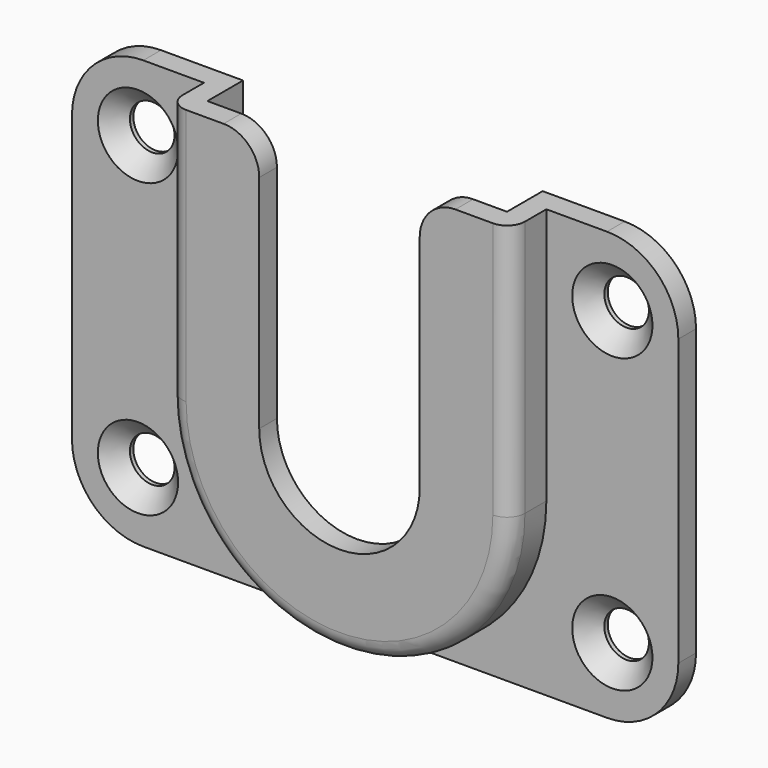
from build123d import *

# Parameters (mm, degrees)
F0_R     = 1.5875
F1_DEPTH = 1.5748
F3_DEPTH = 3.175
F5_DEPTH = 3.175
F7_DEPTH = 4.7508
F9_DEPTH = 4.7508
F10_R    = 1.27
F11_SIZE = 1.27


with BuildPart() as f1:
    # F0 (on Front) → F1 (new body)
    with BuildSketch(Plane.XZ):
        with BuildLine():
            ThreePointArc((21.59, 10.16), (20.1021024484, 13.7521024484), (16.51, 15.24))
            Line((16.51, 15.24), (-16.51, 15.24))
            ThreePointArc((-16.51, 15.24), (-20.1021024484, 13.7521024484), (-21.59, 10.16))
            Line((-21.59, 10.16), (-21.59, -10.16))
            ThreePointArc((-21.59, -10.16), (-20.1021024484, -13.7521024484), (-16.51, -15.24))
            Line((-16.51, -15.24), (16.51, -15.24))
            ThreePointArc((16.51, -15.24), (20.1021024484, -13.7521024484), (21.59, -10.16))
            Line((21.59, -10.16), (21.59, 10.16))
        make_face()
        with Locations((-16.891, -10.414)):
            Circle(F0_R, mode=Mode.SUBTRACT)
        with Locations((16.891, -10.414)):
            Circle(F0_R, mode=Mode.SUBTRACT)
        with Locations((-16.891, 10.414)):
            Circle(F0_R, mode=Mode.SUBTRACT)
        with Locations((16.891, 10.414)):
            Circle(F0_R, mode=Mode.SUBTRACT)
    extrude(amount=F1_DEPTH)

    # F2 (on face) → F3 (join)
    with BuildSketch(Plane.XZ.offset(1.5748)):
        with BuildLine():
            ThreePointArc((-12.192, -3.048), (0, -15.24), (12.192, -3.048))
            ThreePointArc((12.192, -3.048), (0, 9.144), (-12.192, -3.048))
        make_face()
        with BuildLine():
            ThreePointArc((-12.192, -3.048), (0, 9.144), (12.192, -3.048))
            Line((12.192, -3.048), (12.192, 15.24))
            Line((12.192, 15.24), (-12.192, 15.24))
            Line((-12.192, 15.24), (-12.192, -3.048))
        make_face()
    extrude(amount=F3_DEPTH)

    # F4 (on Front) → F5 (cut)
    with BuildSketch(Plane.XZ):
        with BuildLine():
            ThreePointArc((-10.668, -3.048), (0, -13.716), (10.668, -3.048))
            ThreePointArc((10.668, -3.048), (0, 7.62), (-10.668, -3.048))
        make_face()
        with BuildLine():
            ThreePointArc((-10.668, -3.048), (0, 7.62), (10.668, -3.048))
            Line((10.668, -3.048), (10.668, 15.24))
            Line((10.668, 15.24), (-10.668, 15.24))
            Line((-10.668, 15.24), (-10.668, -3.048))
        make_face()
    extrude(amount=F5_DEPTH, mode=Mode.SUBTRACT)

    # F6 (on face) → F7 (cut, through all)
    with BuildSketch(Plane.XZ.offset(4.7498)):
        with BuildLine():
            Line((5.715, -3.048), (5.715, 15.24))
            Line((5.715, 15.24), (-5.715, 15.24))
            Line((-5.715, 15.24), (-5.715, -3.048))
            ThreePointArc((-5.715, -3.048), (0, 2.667), (5.715, -3.048))
        make_face()
        with BuildLine():
            ThreePointArc((-5.715, -3.048), (0, -8.763), (5.715, -3.048))
            ThreePointArc((5.715, -3.048), (0, 2.667), (-5.715, -3.048))
        make_face()
    extrude(amount=-F7_DEPTH, mode=Mode.SUBTRACT)

    # F8 (on face) → F9 (cut, through all)
    with BuildSketch(Plane.XZ.offset(4.7498)):
        with BuildLine():
            Line((-5.715, 15.24), (-8.255, 15.24))
            ThreePointArc((-8.255, 15.24), (-6.4589487758, 14.4960512242), (-5.715, 12.7))
            Line((-5.715, 12.7), (-5.715, 15.24))
        make_face()
        with BuildLine():
            Line((5.715, 15.24), (5.715, 12.7))
            ThreePointArc((5.715, 12.7), (6.4589487758, 14.4960512242), (8.255, 15.24))
            Line((8.255, 15.24), (5.715, 15.24))
        make_face()
    extrude(amount=-F9_DEPTH, mode=Mode.SUBTRACT)

    # F10
    f10_edges = [f1.edges().sort_by_distance(p)[0] for p in [
        (0, -4.7498, -15.24),
        (-12.192, -4.7498, 6.096),
        (12.192, -4.7498, 6.096),
    ]]
    fillet(f10_edges, radius=F10_R)

    # F11
    f11_edges = [f1.edges().sort_by_distance(p)[0] for p in [
        (-18.4785, -1.5748, 10.414),
        (-18.4785, -1.5748, -10.414),
        (15.3035, -1.5748, 10.414),
        (15.3035, -1.5748, -10.414),
    ]]
    chamfer(f11_edges, length=F11_SIZE)


solid = f1.part
